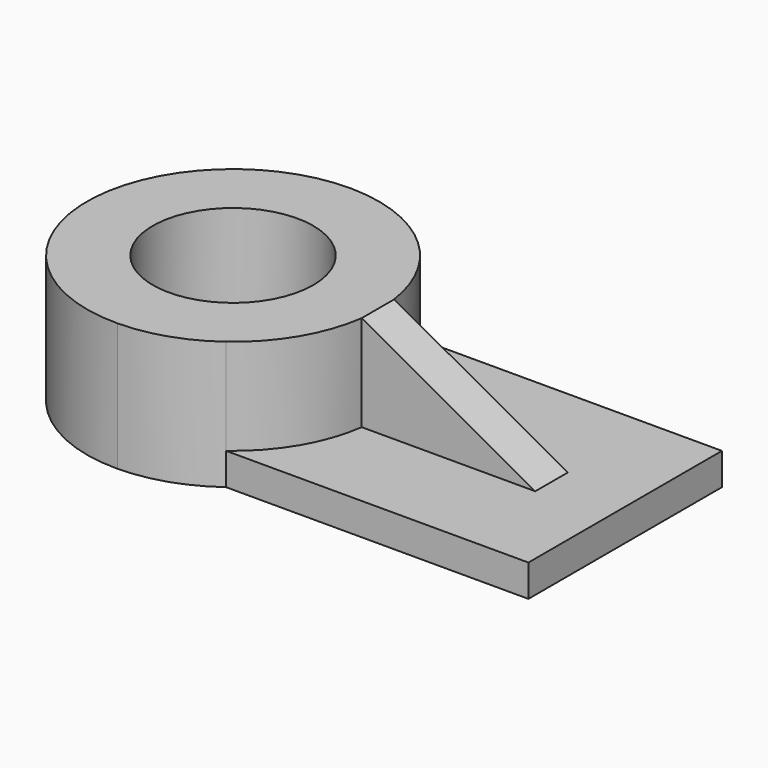
from build123d import *

# Parameters (mm, degrees)
F0_R     = 15.920661
F1_DEPTH = 25.4
F2_DEPTH = 6.35
F4_DEPTH = 19.05
F6_DEPTH = 1752.6


with BuildPart() as f1:
    # F0 (on Top) → F1 (new body)
    with BuildSketch(Plane.XY):
        with BuildLine():
            ThreePointArc((-31.421627, 24.693735), (-38.573704, 27.846859), (-46.308367, 28.973528))
            ThreePointArc((-46.308367, 28.973528), (-75.554202, 0), (-46.308367, -28.973528))
            ThreePointArc((-46.308367, -28.973528), (-37.375926, -27.474257), (-29.342811, -23.290312))
            ThreePointArc((-29.342811, -23.290312), (-17.631762, 1.2541), (-31.421627, 24.693735))
        make_face()
        with Locations((-46.579406, 0)):
            Circle(F0_R, mode=Mode.SUBTRACT)
    extrude(amount=F1_DEPTH)

    # F0 (on Top) → F2 (join)
    with BuildSketch(Plane.XY):
        with BuildLine():
            Line((30.658745, 24.693735), (-31.421627, 24.693735))
            ThreePointArc((-31.421627, 24.693735), (-17.631762, 1.2541), (-29.342811, -23.290312))
            Line((-29.342811, -23.290312), (30.658745, -23.290312))
            Line((30.658745, -23.290312), (30.658745, 0))
            Line((30.658745, 0), (30.658745, 24.693735))
        make_face()
    extrude(amount=F2_DEPTH)

    # F3 (on face) → F4 (join)
    with BuildSketch(Plane.XY.offset(6.35)):
        with BuildLine():
            Line((16.550291, 4.09937), (-17.896066, 4.09937))
            ThreePointArc((-17.896066, 4.09937), (-17.604695, 0.070426), (-17.876477, -3.959886))
            Line((-17.876477, -3.959886), (16.550291, -3.959886))
            Line((16.550291, -3.959886), (16.550291, 4.09937))
        make_face()
    extrude(amount=F4_DEPTH)

    # F5 (on face) → F6 (cut)
    with BuildSketch(Plane.XZ.offset(3.959886)):
        Polygon((16.550291, 25.4), (-17.876477, 25.4), (16.550291, 6.35), align=None)
    extrude(amount=-F6_DEPTH, mode=Mode.SUBTRACT)


solid = f1.part
